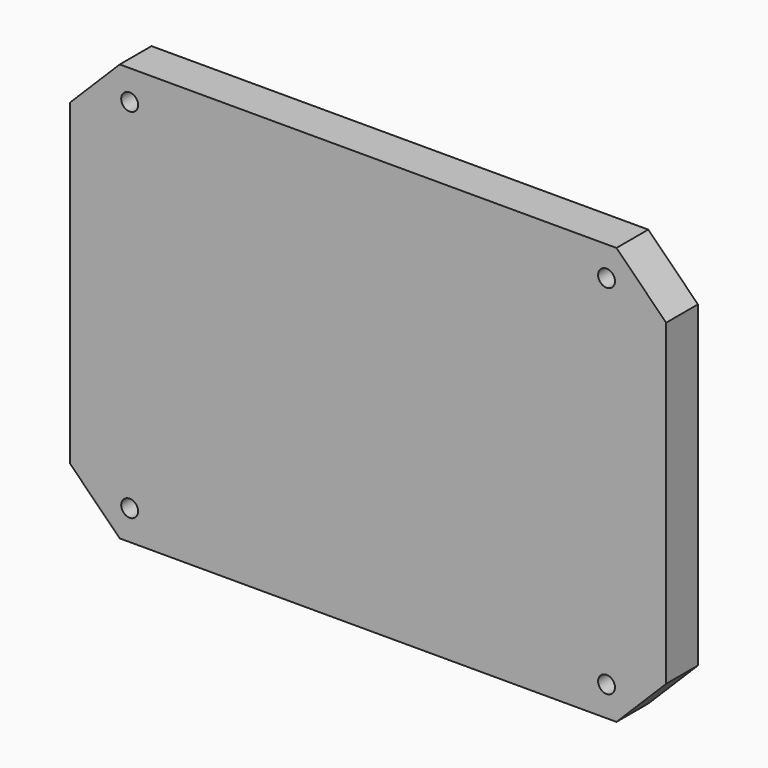
from build123d import *

# Parameters (mm, degrees)
F0_W     = 300
F0_H     = 210
F0_R     = 4.25
F1_DEPTH = 20
F2_SIZE  = 25


with BuildPart() as f1:
    # F0 (on Front) → F1 (new body)
    with BuildSketch(Plane.XZ):
        Rectangle(F0_W, F0_H)
        with Locations((-120, -90)):
            Circle(F0_R, mode=Mode.SUBTRACT)
        with Locations((120, -90)):
            Circle(F0_R, mode=Mode.SUBTRACT)
        with Locations((-120, 90)):
            Circle(F0_R, mode=Mode.SUBTRACT)
        with Locations((120, 90)):
            Circle(F0_R, mode=Mode.SUBTRACT)
    extrude(amount=F1_DEPTH)

    # F2
    f2_edges = [f1.edges().sort_by_distance(p)[0] for p in [
        (150, -10, 105),
        (150, -10, -105),
        (-150, -10, -105),
        (-150, -10, 105),
    ]]
    chamfer(f2_edges, length=F2_SIZE)


solid = f1.part
